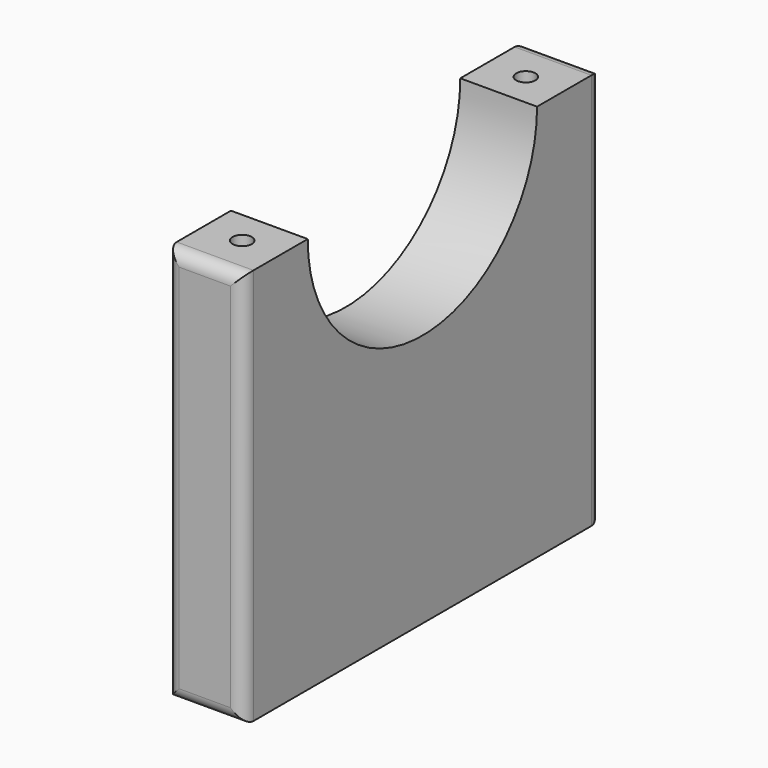
from build123d import *

# Parameters (mm, degrees)
SKETCH020_W     = 6
SKETCH020_H     = 35
PAD004_DEPTH    = 31
SKETCH021_R     = 11.2
POCKET_DEPTH    = 6.001
FILLET004_R     = 1
SKETCH027_R     = 0.75
POCKET009_DEPTH = 12


with BuildPart() as part:
    # Sketch020 → Pad004 (new body)
    with BuildSketch(Plane.XY):
        with Locations((70, 5)):
            Rectangle(SKETCH020_W, SKETCH020_H)
    extrude(amount=PAD004_DEPTH)

    # Sketch021 → Pocket (cut, through all)
    with BuildSketch(Plane.YZ.offset(73)):
        with Locations((5, 31)):
            Circle(SKETCH021_R)
    extrude(amount=-POCKET_DEPTH, mode=Mode.SUBTRACT)

    # Fillet004
    fillet004_edges = [part.edges().sort_by_distance(p)[0] for p in [
        (73, -12.5, 15.5),
        (67, -12.5, 15.5),
        (70, -12.5, 0),
        (70, -12.5, 31),
        (67, 22.5, 15.5),
        (73, 22.5, 15.5),
        (70, 22.5, 0),
        (70, 22.5, 31),
    ]]
    fillet(fillet004_edges, radius=FILLET004_R)

    # Sketch027 → Pocket009 (cut)
    with BuildSketch(Plane.XY.offset(31)):
        with Locations((70, 18.85)):
            Circle(SKETCH027_R)
        with Locations((70, -8.85)):
            Circle(SKETCH027_R)
    extrude(amount=-POCKET009_DEPTH, mode=Mode.SUBTRACT)


solid = part.part
